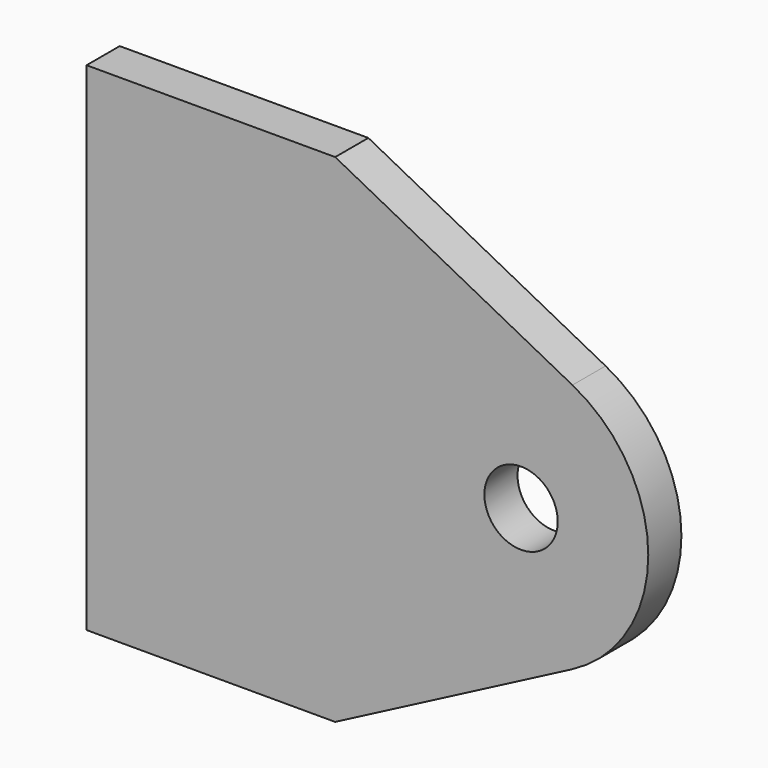
from build123d import *

# Parameters (mm, degrees)
F1_DEPTH = 12.7
F2_D     = 22.479


with BuildPart() as f1:
    # F0 (on Front) → F1 (new body)
    with BuildSketch(Plane.XZ):
        with BuildLine():
            Line((-35.987624, 76.2), (-112.187624, 76.2))
            Line((-112.187624, 76.2), (-112.187624, -76.2))
            Line((-112.187624, -76.2), (-35.987624, -76.2))
            Line((-35.987624, -76.2), (36.712844, -38.322777))
            ThreePointArc((36.712844, -38.322777), (59.958668, 0), (36.712844, 38.322777))
            Line((36.712844, 38.322777), (-35.987624, 76.2))
        make_face()
    extrude(amount=F1_DEPTH)

    # F2 (through all)
    with Locations(Plane(origin=(0, 0, 0), x_dir=(1, 0, 0), z_dir=(0, 1, 0))):
        with Locations((20.97105, 0)):
            Hole(F2_D / 2)


solid = f1.part
